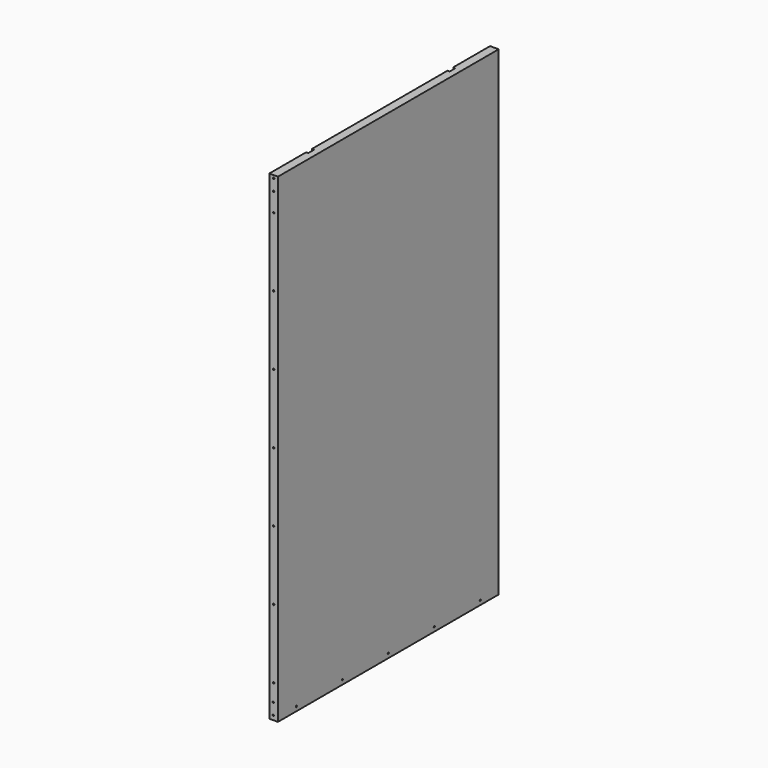
from build123d import *

# Parameters (mm, degrees)
F0_W      = 19.05
F0_H      = 1060.45
F1_DEPTH  = 609.6
F2_R      = 1.5875
F3_DEPTH  = 19.051
F4_R      = 1.5875
F5_DEPTH  = 25.4
F6_R      = 1.5875
F7_DEPTH  = 25.4
F8_R      = 1.5875
F9_DEPTH  = 25.4
F10_W     = 4.826
F10_H     = 15.875
F11_DEPTH = 1060.451
F12_W     = 4.826
F12_H     = 15.875
F13_DEPTH = 1060.451


with BuildPart() as f1:
    # F0 (on Front) → F1 (new body)
    with BuildSketch(Plane.XZ):
        with Locations((9.525, 530.225)):
            Rectangle(F0_W, F0_H)
    extrude(amount=-F1_DEPTH)

    # F2 (on Right) → F3 (cut, through all)
    with BuildSketch(Plane.YZ):
        with Locations((50.8, 9.525)):
            Circle(F2_R)
        with Locations((177.8, 9.525)):
            Circle(F2_R)
        with Locations((304.8, 9.525)):
            Circle(F2_R)
        with Locations((431.8, 9.525)):
            Circle(F2_R)
        with Locations((558.8, 9.525)):
            Circle(F2_R)
    extrude(amount=F3_DEPTH, mode=Mode.SUBTRACT)

    # F4 (on Front) → F5 (cut)
    with BuildSketch(Plane.XZ):
        with Locations((9.525, 1054.1)):
            Circle(F4_R)
        with Locations((9.400492, 1028.700305)):
            Circle(F4_R)
    extrude(amount=-F5_DEPTH, mode=Mode.SUBTRACT)

    # F6 (on Front) → F7 (cut)
    with BuildSketch(Plane.XZ):
        with Locations((8.774849, 9.495769)):
            Circle(F6_R)
        with Locations((8.774849, 34.895769)):
            Circle(F6_R)
    extrude(amount=-F7_DEPTH, mode=Mode.SUBTRACT)

    # F8 (on Front) → F9 (cut)
    with BuildSketch(Plane.XZ):
        with Locations((9.525, 987.425)):
            Circle(F8_R)
        with Locations((9.525, 835.025)):
            Circle(F8_R)
        with Locations((9.525, 682.625)):
            Circle(F8_R)
        with Locations((9.525, 530.225)):
            Circle(F8_R)
        with Locations((9.525, 377.825)):
            Circle(F8_R)
        with Locations((9.525, 225.425)):
            Circle(F8_R)
        with Locations((9.525, 73.025)):
            Circle(F8_R)
    extrude(amount=-F9_DEPTH, mode=Mode.SUBTRACT)

    # F10 (on Top) → F11 (cut, through all)
    with BuildSketch(Plane.XY):
        with Locations((2.413, 109.5375)):
            Rectangle(F10_W, F10_H)
    extrude(amount=F11_DEPTH, mode=Mode.SUBTRACT)

    # F12 (on Top) → F13 (cut, through all)
    with BuildSketch(Plane.XY):
        with Locations((2.413, 500.0625)):
            Rectangle(F12_W, F12_H)
    extrude(amount=F13_DEPTH, mode=Mode.SUBTRACT)


solid = f1.part
